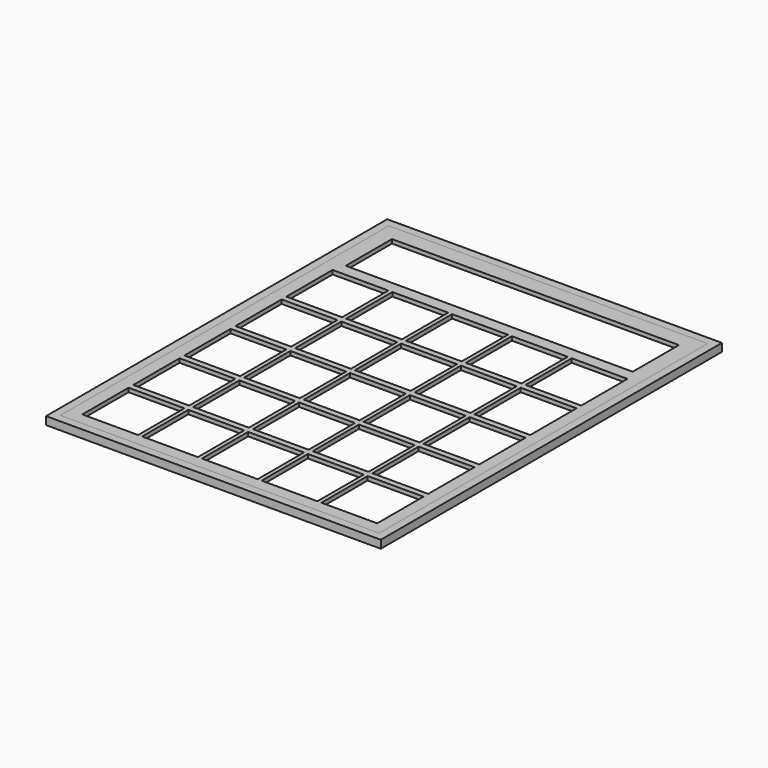
from build123d import *

# Parameters (mm, degrees)
F0_W     = 80
F0_H     = 103
F0_W_2   = 14
F0_H_2   = 14.5
F0_W_3   = 72
F1_DEPTH = 1
F2_W     = 40
F2_H     = 2
F3_DEPTH = 2


with BuildPart() as f1:
    # F0 (on Top) → F1 (new body)
    with BuildSketch(Plane.XY):
        Rectangle(F0_W, F0_H)
        with Locations((-29.9, -41.25)):
            Rectangle(F0_W_2, F0_H_2, mode=Mode.SUBTRACT)
        with Locations((-14.9, -41.25)):
            Rectangle(F0_W_2, F0_H_2, mode=Mode.SUBTRACT)
        with Locations((-29.9, -25.25)):
            Rectangle(F0_W_2, F0_H_2, mode=Mode.SUBTRACT)
        with Locations((-29.9, -9.25)):
            Rectangle(F0_W_2, F0_H_2, mode=Mode.SUBTRACT)
        with Locations((-14.9, -25.25)):
            Rectangle(F0_W_2, F0_H_2, mode=Mode.SUBTRACT)
        with Locations((-14.9, -9.25)):
            Rectangle(F0_W_2, F0_H_2, mode=Mode.SUBTRACT)
        with Locations((0.1, -41.25)):
            Rectangle(F0_W_2, F0_H_2, mode=Mode.SUBTRACT)
        with Locations((15.1, -41.25)):
            Rectangle(F0_W_2, F0_H_2, mode=Mode.SUBTRACT)
        with Locations((30.1, -41.25)):
            Rectangle(F0_W_2, F0_H_2, mode=Mode.SUBTRACT)
        with Locations((0.1, -25.25)):
            Rectangle(F0_W_2, F0_H_2, mode=Mode.SUBTRACT)
        with Locations((15.1, -25.25)):
            Rectangle(F0_W_2, F0_H_2, mode=Mode.SUBTRACT)
        with Locations((0.1, -9.25)):
            Rectangle(F0_W_2, F0_H_2, mode=Mode.SUBTRACT)
        with Locations((15.1, -9.25)):
            Rectangle(F0_W_2, F0_H_2, mode=Mode.SUBTRACT)
        with Locations((30.1, -25.25)):
            Rectangle(F0_W_2, F0_H_2, mode=Mode.SUBTRACT)
        with Locations((30.1, -9.25)):
            Rectangle(F0_W_2, F0_H_2, mode=Mode.SUBTRACT)
        with Locations((-29.9, 6.75)):
            Rectangle(F0_W_2, F0_H_2, mode=Mode.SUBTRACT)
        with Locations((-29.9, 22.75)):
            Rectangle(F0_W_2, F0_H_2, mode=Mode.SUBTRACT)
        with Locations((-14.9, 6.75)):
            Rectangle(F0_W_2, F0_H_2, mode=Mode.SUBTRACT)
        with Locations((-14.9, 22.75)):
            Rectangle(F0_W_2, F0_H_2, mode=Mode.SUBTRACT)
        with Locations((0.1, 6.75)):
            Rectangle(F0_W_2, F0_H_2, mode=Mode.SUBTRACT)
        with Locations((15.1, 6.75)):
            Rectangle(F0_W_2, F0_H_2, mode=Mode.SUBTRACT)
        with Locations((0.1, 22.75)):
            Rectangle(F0_W_2, F0_H_2, mode=Mode.SUBTRACT)
        with Locations((15.1, 22.75)):
            Rectangle(F0_W_2, F0_H_2, mode=Mode.SUBTRACT)
        with Locations((30.1, 6.75)):
            Rectangle(F0_W_2, F0_H_2, mode=Mode.SUBTRACT)
        with Locations((30.1, 22.75)):
            Rectangle(F0_W_2, F0_H_2, mode=Mode.SUBTRACT)
        with Locations((0, 40.25)):
            Rectangle(F0_W_3, F0_H_2, mode=Mode.SUBTRACT)
    extrude(amount=F1_DEPTH)


with BuildPart() as f3:
    # F2 (on face) → F3 (new body)
    with BuildSketch(Plane.XY.offset(1)):
        Polygon((0, -51.5), (-40, -51.5), (-42, -51.5), (-42, -53.5), (0, -53.5), align=None)
        Polygon((40, -51.5), (0, -51.5), (0, -53.5), (42, -53.5), (42, -51.5), align=None)
        Polygon((40, 51.5), (40, -51.5), (42, -51.5), (42, 53.5), (40, 53.5), align=None)
        Polygon((-42, -51.5), (-40, -51.5), (-40, 51.5), (-40, 53.5), (-42, 53.5), align=None)
        with Locations((-20, 52.5)):
            Rectangle(F2_W, F2_H)
        with Locations((20, 52.5)):
            Rectangle(F2_W, F2_H)
    extrude(amount=-F3_DEPTH)


solid = Compound([f1.part, f3.part])
